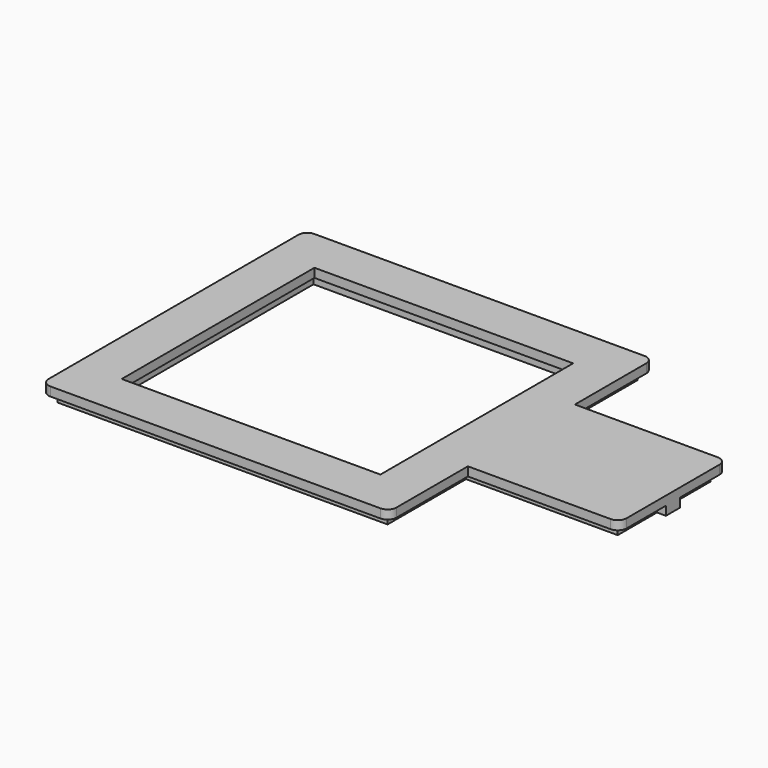
from build123d import *

# Parameters (mm, degrees)
PAD_DEPTH            = 5
POCKET_DEPTH         = 4
SKETCH001_W          = 30
SKETCH001_H          = 28
PAD001_DEPTH         = 5
SKETCH003_W          = 29
SKETCH003_H          = 27
POCKET001_DEPTH      = 5
SKETCH004_W          = 2
SKETCH004_H          = 2
POCKET002_DEPTH      = 4
FILLET002_R          = 1
FILLET003_R          = 1
PAD002_DEPTH         = 2
SKETCH006_W          = 29
SKETCH006_H          = 27
POCKET003_DEPTH      = 0.001
POCKET003_DEPTH_BACK = -6.001
FILLET_R             = 1


with BuildPart() as body:
    # Sketch → Pad (new body)
    with BuildSketch(Plane.XY):
        Polygon((36.5, 7.5), (19.5, 7.5), (19.5, 18.5), (-19.5, 18.5), (-19.5, -18.5), (19.5, -18.5), (19.5, -7.5), (36.5, -7.5), align=None)
    extrude(amount=PAD_DEPTH)

    # Sketch002 → Pocket (cut)
    with BuildSketch(Plane.XY.offset(1)):
        Polygon((35.5, 6.5), (18.5, 6.5), (18.5, 17.5), (-18.5, 17.5), (-18.5, -17.5), (18.5, -17.5), (18.5, -6.5), (35.5, -6.5), align=None)
    extrude(amount=POCKET_DEPTH, mode=Mode.SUBTRACT)

    # Sketch001 → Pad001 (join)
    with BuildSketch(Plane.XY):
        Rectangle(SKETCH001_W, SKETCH001_H)
    extrude(amount=PAD001_DEPTH)

    # Sketch003 → Pocket001 (cut)
    with BuildSketch(Plane.XY):
        Rectangle(SKETCH003_W, SKETCH003_H)
    extrude(amount=POCKET001_DEPTH, mode=Mode.SUBTRACT)

    # Sketch004 → Pocket002 (cut)
    with BuildSketch(Plane.XY.offset(1)):
        with Locations((35.5, 0)):
            Rectangle(SKETCH004_W, SKETCH004_H)
    extrude(amount=POCKET002_DEPTH, mode=Mode.SUBTRACT)

    # Fillet002
    fillet002_edges = [body.edges().sort_by_distance(p)[0] for p in [
        (36.5, 7.5, 2.5),
        (19.5, 18.5, 2.5),
        (-19.5, 18.5, 2.5),
    ]]
    fillet(fillet002_edges, radius=FILLET002_R)

    # Fillet003
    fillet003_edges = [body.edges().sort_by_distance(p)[0] for p in [
        (36.5, -7.5, 2.5),
        (19.5, -18.5, 2.5),
        (-19.5, -18.5, 2.5),
    ]]
    fillet(fillet003_edges, radius=FILLET003_R)


with BuildPart() as cut:
    # Sketch005 → Pad002 (new body)
    with BuildSketch(Plane.XY.offset(4)):
        Polygon((36.5, 7.5), (19.5, 7.5), (19.5, 18.5), (-19.5, 18.5), (-19.5, -18.5), (19.5, -18.5), (19.5, -7.5), (36.5, -7.5), align=None)
    extrude(amount=PAD002_DEPTH)

    # Sketch006 → Pocket003 (cut, two sides)
    with BuildSketch(Plane.XY) as pocket003_sk:
        Rectangle(SKETCH006_W, SKETCH006_H)
    extrude(amount=-POCKET003_DEPTH, mode=Mode.SUBTRACT)
    extrude(pocket003_sk.sketch, amount=-POCKET003_DEPTH_BACK, mode=Mode.SUBTRACT)

    # Fillet
    fillet_edges = [cut.edges().sort_by_distance(p)[0] for p in [
        (36.5, -7.5, 5),
        (36.5, 7.5, 5),
        (19.5, 18.5, 5),
        (19.5, -18.5, 5),
        (-19.5, -18.5, 5),
        (-19.5, 18.5, 5),
    ]]
    fillet(fillet_edges, radius=FILLET_R)

    # Cut: cut Body
    add(body.part, mode=Mode.SUBTRACT)


solid = cut.part
